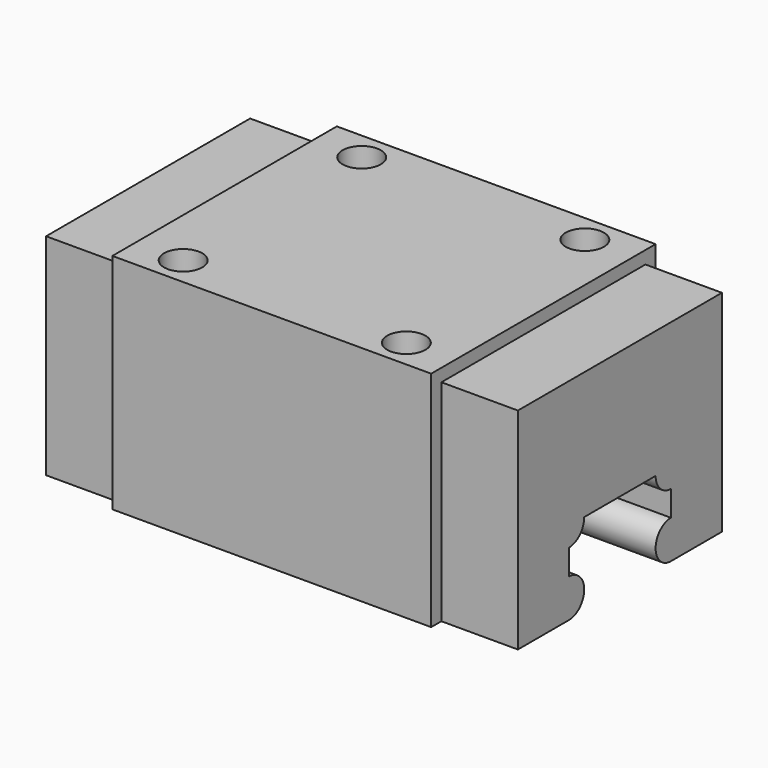
from build123d import *

# Parameters (mm, degrees)
F1_DEPTH  = 74
F2_W      = 12
F2_H      = 44
F3_DEPTH  = 2
F4_W      = 12
F4_H      = 2
F5_DEPTH  = 25
F7_DEPTH  = 8
F8_W      = 50
F8_H      = 44
F8_R      = 3
F9_DEPTH  = 10
F10_W     = 12
F10_H     = 40
F11_DEPTH = 10


with BuildPart() as f1:
    # F0 (on Right) → F1 (new body)
    with BuildSketch(Plane.YZ):
        with BuildLine():
            ThreePointArc((-26.041336, 5), (-23.041336, 8), (-26.041336, 11))
            Line((-26.041336, 11), (-26.041336, 15))
            ThreePointArc((-26.041336, 15), (-23.920016, 15.87868), (-23.041336, 18))
            Line((-23.041336, 18), (-9.041336, 18))
            ThreePointArc((-9.041336, 18), (-8.162657, 15.87868), (-6.041336, 15))
            Line((-6.041336, 15), (-6.041336, 11))
            ThreePointArc((-6.041336, 11), (-9.041336, 8), (-6.041336, 5))
            Line((-6.041336, 5), (5.958664, 5))
            Line((5.958664, 5), (5.958664, 30))
            Line((5.958664, 30), (-38.041336, 30))
            Line((-38.041336, 30), (-38.041336, 5))
            Line((-38.041336, 5), (-26.041336, 5))
        make_face()
    extrude(amount=F1_DEPTH)

    # F2 (on face) → F3 (cut)
    with BuildSketch(Plane.XY.offset(30)):
        with Locations((68, -16.041336)):
            Rectangle(F2_W, F2_H)
        with Locations((6, -16.041336)):
            Rectangle(F2_W, F2_H)
    extrude(amount=-F3_DEPTH, mode=Mode.SUBTRACT)

    # F4 (on face) → F5 (cut)
    with BuildSketch(Plane.XY.offset(30)):
        with Locations((6, 4.958664)):
            Rectangle(F4_W, F4_H)
        with Locations((6, -37.041336)):
            Rectangle(F4_W, F4_H)
        with Locations((68, -37.041336)):
            Rectangle(F4_W, F4_H)
        with Locations((68, 4.958664)):
            Rectangle(F4_W, F4_H)
    extrude(amount=-F5_DEPTH, mode=Mode.SUBTRACT)

    # F6 (on face) → F7 (cut)
    with BuildSketch(Plane.XY.offset(30)):
        with BuildLine():
            ThreePointArc((22.5, 1.458664), (17.37868, 3.579984), (19.5, -1.541336))
            ThreePointArc((19.5, -1.541336), (21.62132, -0.662657), (22.5, 1.458664))
        make_face()
        with BuildLine():
            ThreePointArc((51.5, 1.458664), (52.37868, -0.662657), (54.5, -1.541336))
            ThreePointArc((54.5, -1.541336), (56.62132, -0.662657), (57.5, 1.458664))
            ThreePointArc((57.5, 1.458664), (54.5, 4.458664), (51.5, 1.458664))
        make_face()
        with BuildLine():
            ThreePointArc((54.5, -30.541336), (52.37868, -31.420016), (51.5, -33.541336))
            ThreePointArc((51.5, -33.541336), (54.5, -36.541336), (57.5, -33.541336))
            ThreePointArc((57.5, -33.541336), (56.62132, -31.420016), (54.5, -30.541336))
        make_face()
        with BuildLine():
            ThreePointArc((19.5, -30.541336), (17.37868, -35.662657), (22.5, -33.541336))
            ThreePointArc((22.5, -33.541336), (21.62132, -31.420016), (19.5, -30.541336))
        make_face()
    extrude(amount=-F7_DEPTH, mode=Mode.SUBTRACT)

    # F8 (on face) → F9 (join)
    with BuildSketch(Plane.XY.offset(30)):
        with Locations((37, -16.041336)):
            Rectangle(F8_W, F8_H)
        with Locations((19.5, -33.541336)):
            Circle(F8_R, mode=Mode.SUBTRACT)
        with Locations((54.5, -33.541336)):
            Circle(F8_R, mode=Mode.SUBTRACT)
        with Locations((19.5, 1.458664)):
            Circle(F8_R, mode=Mode.SUBTRACT)
        with Locations((54.5, 1.458664)):
            Circle(F8_R, mode=Mode.SUBTRACT)
    extrude(amount=F9_DEPTH)

    # F10 (on face) → F11 (join)
    with BuildSketch(Plane.XY.offset(28)):
        with Locations((6, -16.041336)):
            Rectangle(F10_W, F10_H)
        with Locations((68, -16.041336)):
            Rectangle(F10_W, F10_H)
    extrude(amount=F11_DEPTH)


solid = f1.part
